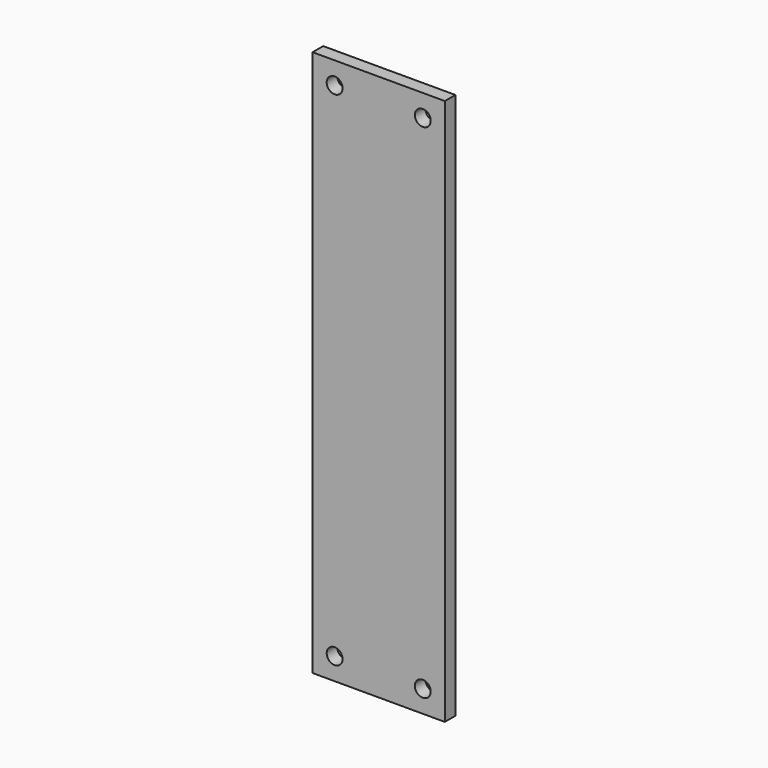
from build123d import *

# Parameters (mm, degrees)
CYLINDER038_R       = 1.8
CYLINDER038_DEPTH   = 10
ARRAY001019_X_COUNT = 2
ARRAY001019_X_PITCH = 20
ARRAY001019_Z_COUNT = 2
ARRAY001019_Z_PITCH = 114
BOX018_W            = 30
BOX018_H            = 3
BOX018_DEPTH        = 124


with BuildPart() as side_connector_hole_array:
    # Cylinder038 → Cylinder038 (new body)
    with BuildSketch(Plane.XZ):
        Circle(CYLINDER038_R)
    extrude(amount=CYLINDER038_DEPTH)

    # Array001019 X: side connector hole array ×2


with BuildPart() as side_connector_hole_array_1:
    add(side_connector_hole_array.part)
    with Locations(*[(i * ARRAY001019_X_PITCH, 0, 0) for i in range(1, ARRAY001019_X_COUNT)]):
        add(side_connector_hole_array.part)

    # Array001019 Z: side connector hole array ×2


with BuildPart() as side_connector_hole_array_2:
    add(side_connector_hole_array_1.part)
    with Locations(*[(0, 0, i * ARRAY001019_Z_PITCH) for i in range(1, ARRAY001019_Z_COUNT)]):
        add(side_connector_hole_array_1.part)


with BuildPart() as side_connector_hole_array_3:
    # Array001019 placement: moved
    add(side_connector_hole_array_2.part.moved(Location((5, 5, 5))))


with BuildPart() as vertical_side_connector_clone002:
    # Box018 → Box018 (new body)
    with BuildSketch(Plane.XY):
        with Locations((15, 1.5)):
            Rectangle(BOX018_W, BOX018_H)
    extrude(amount=BOX018_DEPTH)

    # Cut014: cut side connector hole array
    add(side_connector_hole_array_3.part, mode=Mode.SUBTRACT)


with BuildPart() as vertical_side_connector_clone002_1:
    # Compound001 placement: moved
    add(vertical_side_connector_clone002.part.moved(Location((0, -5, -36))))


with BuildPart() as vertical_side_connector_clone002_2:
    # Clone006 placement: moved
    add(vertical_side_connector_clone002_1.part.moved(Location((0, 0, 2))))


with BuildPart() as vertical_side_connector_clone002_3:
    # Body006 placement: moved
    add(vertical_side_connector_clone002_2.part.moved(Location((90, 95, 0))))


solid = vertical_side_connector_clone002_3.part
